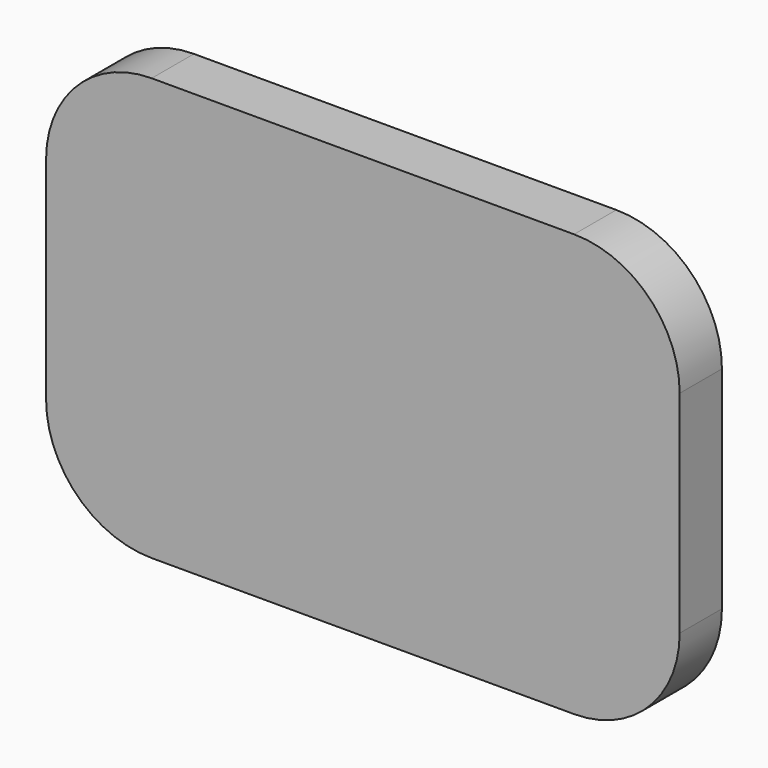
from build123d import *

# Parameters (mm, degrees)
F1_DEPTH = 3.175


with BuildPart() as f1:
    # F0 (on Front) → F1 (new body, symmetric)
    with BuildSketch(Plane.XZ):
        with BuildLine():
            Line((-25.4, -25.4), (25.4, -25.4))
            ThreePointArc((25.4, -25.4), (34.3802561211, -21.6802561211), (38.1, -12.7))
            Line((38.1, -12.7), (38.1, 12.7))
            ThreePointArc((38.1, 12.7), (34.3802561211, 21.6802561211), (25.4, 25.4))
            Line((25.4, 25.4), (-25.4, 25.4))
            ThreePointArc((-25.4, 25.4), (-34.3802561211, 21.6802561211), (-38.1, 12.7))
            Line((-38.1, 12.7), (-38.1, -12.7))
            ThreePointArc((-38.1, -12.7), (-34.3802561211, -21.6802561211), (-25.4, -25.4))
        make_face()
    extrude(amount=F1_DEPTH, both=True)


solid = f1.part
